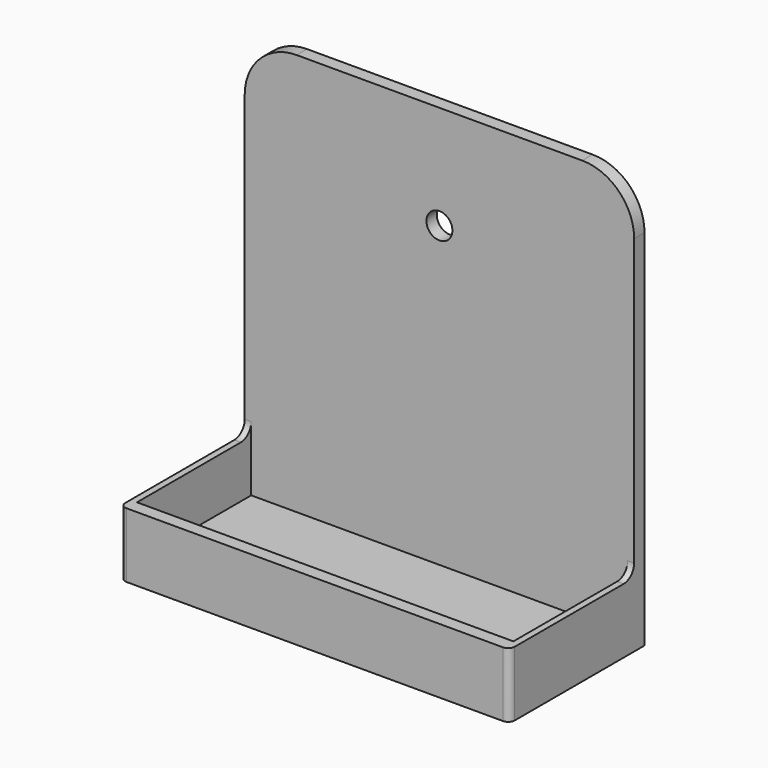
from build123d import *

# Parameters (mm, degrees)
F1_DEPTH = 3.175
F3_DEPTH = 3.175
F4_W     = 38.1
F4_H     = 15.875
F5_DEPTH = 1.5875
F7_W     = 95.25
F7_H     = 15.875
F8_DEPTH = 3.175
F9_R     = 12.7
F11_D    = 6.35
F12_R    = 3.175
F13_R    = 1.5875


with BuildPart() as f1:
    # F0 (on Front) → F1 (new body)
    with BuildSketch(Plane.XZ):
        Polygon((-47.625, 0), (0, 0), (47.625, 0), (47.625, 101.6), (0, 101.6), (-47.625, 101.6), align=None)
    extrude(amount=F1_DEPTH)

    # F2 (on Top) → F3 (join)
    with BuildSketch(Plane.XY):
        Polygon((47.625, 0), (0, 0), (-47.625, 0), (-47.625, -38.1), (0, -38.1), (47.625, -38.1), align=None)
    extrude(amount=F3_DEPTH)

    # F4 (on face) → F5 (join)
    with BuildSketch(Plane.YZ.offset(47.625)):
        with Locations((-19.05, 7.9375)):
            Rectangle(F4_W, F4_H)
    extrude(amount=-F5_DEPTH)

    # F6: F1 across plane


with BuildPart() as f1_1:
    add(f1.part)
    add(f1.part.mirror(Plane.YZ))

    # F7 (on face) → F8 (join)
    with BuildSketch(Plane.XZ.offset(38.1)):
        with Locations((0, 7.9375)):
            Rectangle(F7_W, F7_H)
    extrude(amount=F8_DEPTH)

    # F9
    f9_edges = [f1_1.edges().sort_by_distance(p)[0] for p in [
        (47.625, -1.5875, 101.6),
        (-47.625, -1.5875, 101.6),
    ]]
    fillet(f9_edges, radius=F9_R)

    # F11 (through all)
    with Locations(Plane.XZ.offset(3.175)):
        with Locations((0, 76.2)):
            Hole(F11_D / 2)

    # F12
    f12_edges = [f1_1.edges().sort_by_distance(p)[0] for p in [
        (-46.83125, -3.175, 15.875),
        (46.83125, -3.175, 15.875),
    ]]
    fillet(f12_edges, radius=F12_R)

    # F13
    f13_edges = [f1_1.edges().sort_by_distance(p)[0] for p in [
        (-47.625, -41.275, 7.9375),
        (47.625, -41.275, 7.9375),
    ]]
    fillet(f13_edges, radius=F13_R)


solid = f1_1.part
